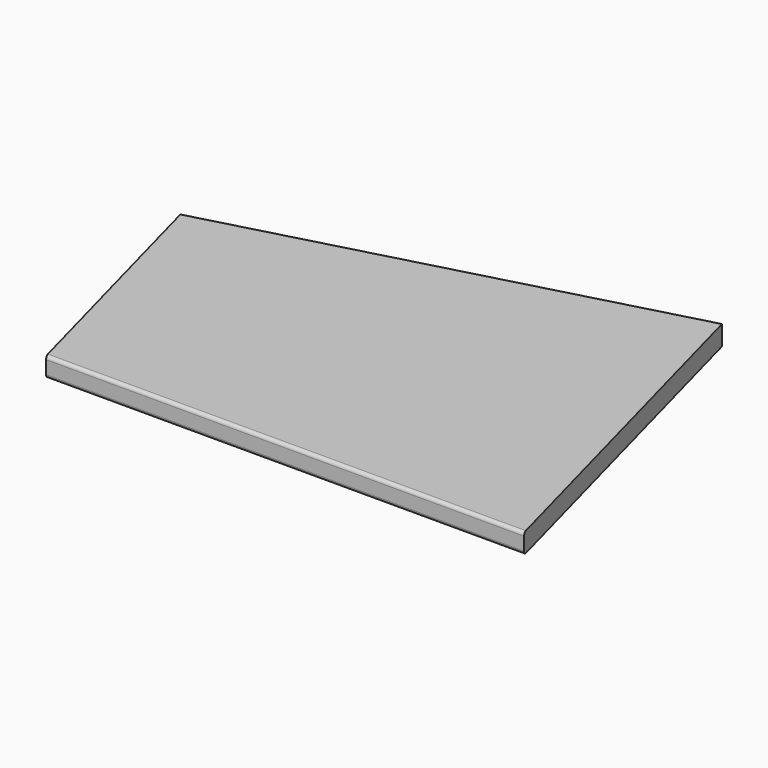
from build123d import *

# Parameters (mm, degrees)
F2_DEPTH = 500
F3_DEPTH = 50


with BuildPart() as f2:
    # F0 (on Right) → F2 (new body, symmetric)
    with BuildSketch(Plane.YZ):
        with BuildLine():
            Line((325, -15), (325, 15))
            Line((325, 15), (-320, 15))
            ThreePointArc((-320, 15), (-323.5355339059, 13.5355339059), (-325, 10))
            Line((-325, 10), (-325, -10))
            ThreePointArc((-325, -10), (-323.5355339059, -13.5355339059), (-320, -15))
            Line((-320, -15), (325, -15))
        make_face()
    extrude(amount=F2_DEPTH, both=True)

    # F1 (on Top) → F3 (intersect, symmetric)
    with BuildSketch(Plane.XY):
        Polygon((-377.2004181072, 57.5629813311), (-222.5983966751, -519.420954832), (453.5497866996, -338.2480150228), (298.9477652675, 238.7359211403), align=None)
    extrude(amount=F3_DEPTH, both=True, mode=Mode.INTERSECT)


solid = f2.part
